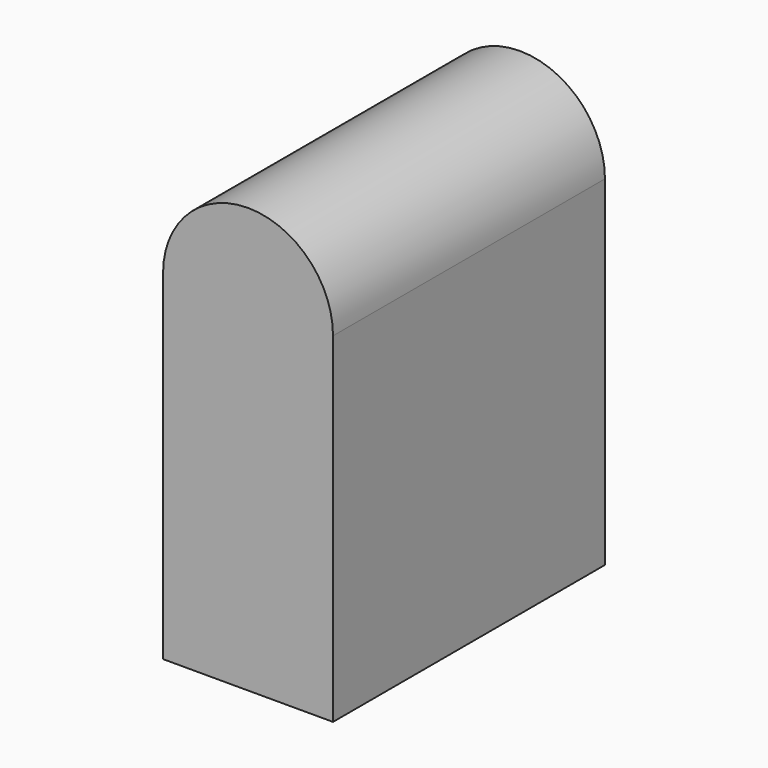
from build123d import *

# Parameters (mm, degrees)
F1_DEPTH      = 6.35
F1_DEPTH_BACK = 6.35


with BuildPart() as f1:
    # F0 (on Front) → F1 (new body, two sides)
    with BuildSketch(Plane.XZ) as f1_sk:
        with BuildLine():
            Line((-3.175, -12.7), (3.175, -12.7))
            Line((3.175, -12.7), (3.175, 0))
            ThreePointArc((3.175, 0), (0, 3.175), (-3.175, 0))
            Line((-3.175, 0), (-3.175, -12.7))
        make_face()
    extrude(amount=F1_DEPTH)
    extrude(f1_sk.sketch, amount=-F1_DEPTH_BACK)


solid = f1.part
